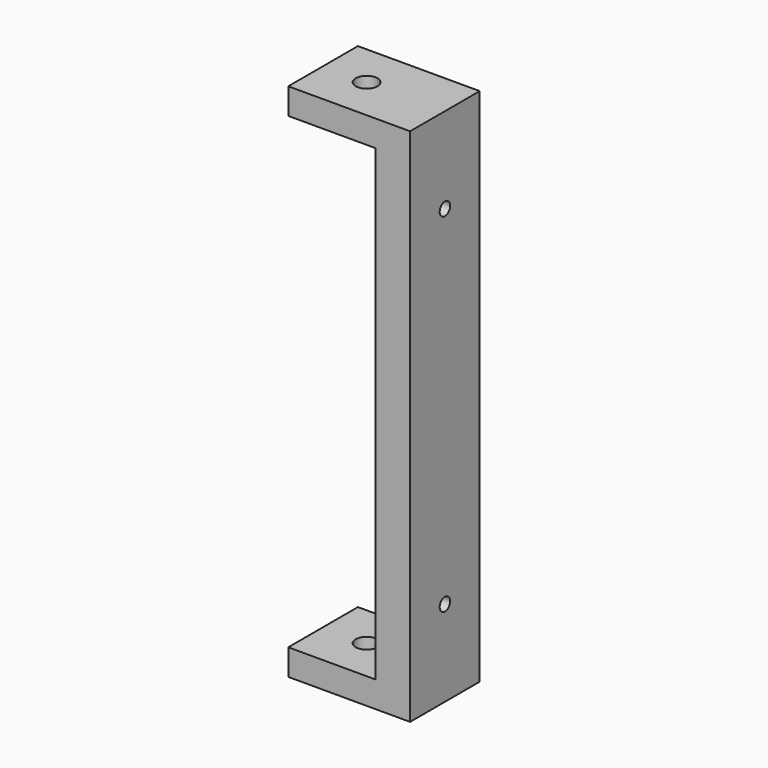
from build123d import *

# Parameters (mm, degrees)
PAD003_DEPTH        = 10
HOLE004_D           = 3
HOLE004_DEPTH       = 25
HOLE004_CBORE_D     = 6
HOLE004_CBORE_DEPTH = 4
SKETCH009_R         = 2.5
POCKET_DEPTH        = 6.001
POCKET_DEPTH_BACK   = 113.501


with BuildPart() as part:
    # Sketch007 → Pad003 (new body, symmetric)
    with BuildSketch(Plane.XZ):
        Polygon((0, 53.75), (-20, 53.75), (-20, 59.75), (8, 59.75), (8, -59.75), (-20, -59.75), (-20, -53.75), (0, -53.75), align=None)
    extrude(amount=PAD003_DEPTH, both=True)

    # Hole004
    with Locations(Plane(origin=(0, 0, 0), x_dir=(0, 0, -1), z_dir=(-1, 0, 0))):
        with Locations((-40, 0), (40, 0)):
            CounterBoreHole(HOLE004_D / 2, HOLE004_CBORE_D / 2, HOLE004_CBORE_DEPTH, depth=HOLE004_DEPTH)

    # Sketch009 (on Face1 of Hole004) → Pocket (cut, two sides)
    with BuildSketch(Plane(origin=(0, 0, 53.75), x_dir=(1, 0, 0), z_dir=(0, 0, -1))) as pocket_sk:
        with Locations((-10, 0)):
            Circle(SKETCH009_R)
    extrude(amount=-POCKET_DEPTH, mode=Mode.SUBTRACT)
    extrude(pocket_sk.sketch, amount=POCKET_DEPTH_BACK, mode=Mode.SUBTRACT)


solid = part.part
